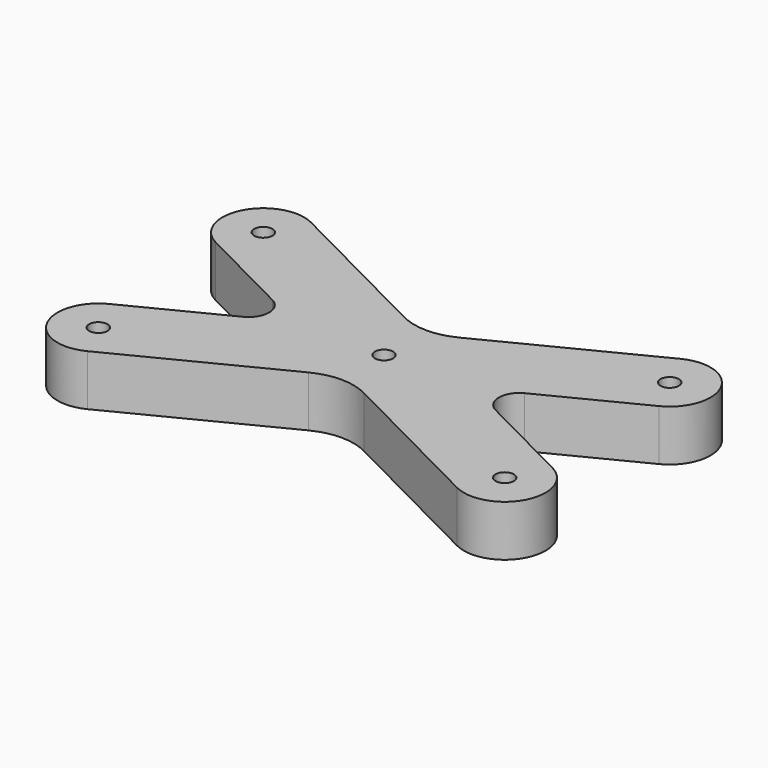
from build123d import *

# Parameters (mm, degrees)
F0_R     = 4.5
F1_DEPTH = 25


with BuildPart() as f1:
    # F0 (on Top) → F1 (new body)
    with BuildSketch(Plane.XY):
        with BuildLine():
            ThreePointArc((48.404608, 55.200653), (51.586588, 56.518673), (52.904608, 59.700653))
            ThreePointArc((52.904608, 59.700653), (45.222627, 62.882634), (48.404608, 55.200653))
        make_face()
        with BuildLine():
            Line((-112.855788, 0.283429), (-159.647047, -23.464898))
            ThreePointArc((-159.647047, -23.464898), (-168.42984, -50.351002), (-141.543737, -59.133795))
            Line((-141.543737, -59.133795), (-64.672874, -20.118935))
            ThreePointArc((-64.672874, -20.118935), (-51.095392, -16.870607), (-37.51791, -20.118935))
            Line((-37.51791, -20.118935), (39.352953, -59.133795))
            ThreePointArc((39.352953, -59.133795), (66.239056, -50.351002), (57.456263, -23.464898))
            Line((57.456263, -23.464898), (10.665003, 0.283429))
            ThreePointArc((10.665003, 0.283429), (5.190831, 9.200653), (10.665003, 18.117877))
            Line((10.665003, 18.117877), (57.456263, 41.866205))
            ThreePointArc((57.456263, 41.866205), (66.239056, 68.752308), (39.352953, 77.535102))
            Line((39.352953, 77.535102), (-37.51791, 38.520241))
            ThreePointArc((-37.51791, 38.520241), (-51.095392, 35.271914), (-64.672874, 38.520241))
            Line((-64.672874, 38.520241), (-141.543737, 77.535102))
            ThreePointArc((-141.543737, 77.535102), (-168.42984, 68.752308), (-159.647047, 41.866205))
            Line((-159.647047, 41.866205), (-112.855788, 18.117877))
            ThreePointArc((-112.855788, 18.117877), (-107.381615, 9.200653), (-112.855788, 0.283429))
        make_face()
        with Locations((-150.595392, -41.299347)):
            Circle(F0_R, mode=Mode.SUBTRACT)
        with Locations((48.404608, -41.299347)):
            Circle(F0_R, mode=Mode.SUBTRACT)
        with Locations((-51.095392, 9.200653)):
            Circle(F0_R, mode=Mode.SUBTRACT)
        with Locations((-150.595392, 59.700653)):
            Circle(F0_R, mode=Mode.SUBTRACT)
        with BuildLine():
            ThreePointArc((48.404608, 55.200653), (45.222627, 62.882634), (52.904608, 59.700653))
            ThreePointArc((52.904608, 59.700653), (51.586588, 56.518673), (48.404608, 55.200653))
        make_face(mode=Mode.SUBTRACT)
    extrude(amount=F1_DEPTH)


solid = f1.part
